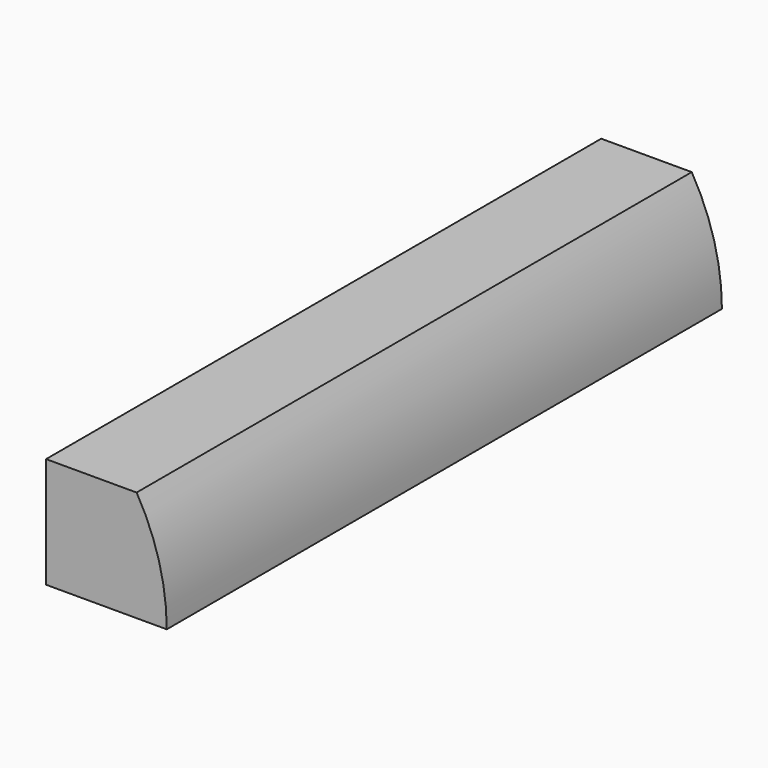
from build123d import *

# Parameters (mm, degrees)
F1_DEPTH = 345


with BuildPart() as f1:
    # F0 (on Front) → F1 (new body)
    with BuildSketch(Plane.XZ):
        with BuildLine():
            Line((0, 110), (0, 55))
            Line((0, 55), (60, 55))
            ThreePointArc((60, 55), (56.182747, 83.504386), (45, 110))
            Line((45, 110), (0, 110))
        make_face()
    extrude(amount=-F1_DEPTH)


solid = f1.part
